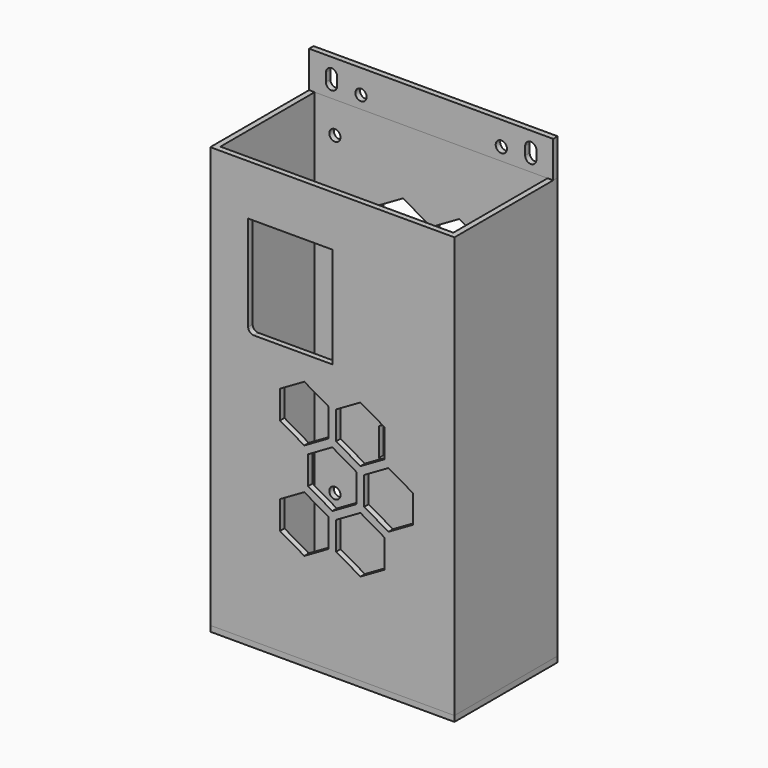
from build123d import *

# Parameters (mm, degrees)
SKETCH_W        = 87
SKETCH_H        = 46
SKETCH_W_2      = 83
SKETCH_H_2      = 42
PAD_DEPTH       = 150
SKETCH002_W     = 30
SKETCH002_H     = 36
POCKET_DEPTH    = 2
FILLET_R        = 2
SKETCH003_R     = 2
POCKET001_DEPTH = 2
SKETCH001_W     = 87
SKETCH001_H     = 46
SKETCH001_R     = 19
SKETCH001_R_2   = 2
SKETCH001_W_2   = 24
SKETCH001_H_2   = 31
PAD001_DEPTH    = 2
SKETCH004_W     = 87
SKETCH004_H     = 13
SKETCH004_R     = 2
PAD002_DEPTH    = 2


with BuildPart() as body:
    # Sketch → Pad (new body)
    with BuildSketch(Plane.XY):
        Rectangle(SKETCH_W, SKETCH_H)
        Rectangle(SKETCH_W_2, SKETCH_H_2, mode=Mode.SUBTRACT)
    extrude(amount=PAD_DEPTH)

    # Sketch002 (on Face3 of Pad) → Pocket (cut)
    with BuildSketch(Plane.XZ.offset(23)):
        with Locations((-15, 114)):
            Rectangle(SKETCH002_W, SKETCH002_H)
        Polygon((-1.339746, 72.320508), (-1.339746, 82.320508), (-10, 87.320508), (-18.660254, 82.320508), (-18.660254, 72.320508), (-10, 67.320508), align=None)
        Polygon((18.660254, 72.320508), (18.660254, 82.320508), (10, 87.320508), (1.339746, 82.320508), (1.339746, 72.320508), (10, 67.320508), align=None)
        Polygon((28.660254, 55), (28.660254, 65), (20, 70), (11.339746, 65), (11.339746, 55), (20, 50), align=None)
        Polygon((18.660254, 37.679492), (18.660254, 47.679492), (10, 52.679492), (1.339746, 47.679492), (1.339746, 37.679492), (10, 32.679492), align=None)
        Polygon((8.660254, 55), (8.660254, 65), (0, 70), (-8.660254, 65), (-8.660254, 55), (0, 50), align=None)
        Polygon((-1.339746, 37.679492), (-1.339746, 47.679492), (-10, 52.679492), (-18.660254, 47.679492), (-18.660254, 37.679492), (-10, 32.679492), align=None)
    extrude(amount=-POCKET_DEPTH, mode=Mode.SUBTRACT)

    # Fillet
    fillet_edges = [body.edges().sort_by_distance(p)[0] for p in [
        (-30, -22, 96),
    ]]
    fillet(fillet_edges, radius=FILLET_R)

    # Sketch003 (on Face48 of Fillet) → Pocket001 (cut)
    with BuildSketch(Plane(origin=(0, 23, 0), x_dir=(-1, 0, 0), z_dir=(0, 1, 0))):
        with Locations((-34.3, 138.8)):
            Circle(SKETCH003_R)
        with Locations((34.3, 138.8)):
            Circle(SKETCH003_R)
        with Locations((-34.3, 28.6)):
            Circle(SKETCH003_R)
        with Locations((34.3, 26.6)):
            Circle(SKETCH003_R)
        Polygon((8.660254, 94.641016), (8.660254, 104.641016), (0, 109.641016), (-8.660254, 104.641016), (-8.660254, 94.641016), (0, 89.641016), align=None)
        Polygon((28.660254, 94.641016), (28.660254, 104.641016), (20, 109.641016), (11.339746, 104.641016), (11.339746, 94.641016), (20, 89.641016), align=None)
        Polygon((-1.339746, 77.320508), (-1.339746, 87.320508), (-10, 92.320508), (-18.660254, 87.320508), (-18.660254, 77.320508), (-10, 72.320508), align=None)
        Polygon((18.660254, 77.320508), (18.660254, 87.320508), (10, 92.320508), (1.339746, 87.320508), (1.339746, 77.320508), (10, 72.320508), align=None)
        Polygon((-1.339746, 111.961524), (-1.339746, 121.961524), (-10, 126.961524), (-18.660254, 121.961524), (-18.660254, 111.961524), (-10, 106.961524), align=None)
        Polygon((18.660254, 111.961524), (18.660254, 121.961524), (10, 126.961524), (1.339746, 121.961524), (1.339746, 111.961524), (10, 106.961524), align=None)
        Polygon((8.660254, 60), (8.660254, 70), (0, 75), (-8.660254, 70), (-8.660254, 60), (0, 55), align=None)
        Polygon((28.660254, 60), (28.660254, 70), (20, 75), (11.339746, 70), (11.339746, 60), (20, 55), align=None)
        Polygon((10, 57.679492), (1.339746, 52.679492), (1.339746, 42.679492), (10, 37.679492), (18.660254, 42.679492), (18.660254, 52.679492), align=None)
        Polygon((-1.339746, 42.679492), (-1.339746, 52.679492), (-10, 57.679492), (-18.660254, 52.679492), (-18.660254, 42.679492), (-10, 37.679492), align=None)
    extrude(amount=-POCKET001_DEPTH, mode=Mode.SUBTRACT)


with BuildPart() as body001:
    # Sketch001 → Pad001 (new body)
    with BuildSketch(Plane.XY):
        Rectangle(SKETCH001_W, SKETCH001_H)
        with Locations((19.5, 0)):
            Circle(SKETCH001_R, mode=Mode.SUBTRACT)
        with Locations((35.5, 17)):
            Circle(SKETCH001_R_2, mode=Mode.SUBTRACT)
        with Locations((35.5, -17)):
            Circle(SKETCH001_R_2, mode=Mode.SUBTRACT)
        with Locations((-37.5, -16)):
            Circle(SKETCH001_R_2, mode=Mode.SUBTRACT)
        with Locations((-26.5, -17)):
            Circle(SKETCH001_R_2, mode=Mode.SUBTRACT)
        with Locations((-26.5, 2.5)):
            Rectangle(SKETCH001_W_2, SKETCH001_H_2, mode=Mode.SUBTRACT)
    extrude(amount=-PAD001_DEPTH)


with BuildPart() as body002:
    # Sketch004 → Pad002 (new body)
    with BuildSketch(Plane.XZ):
        with Locations((0, 6.5)):
            Rectangle(SKETCH004_W, SKETCH004_H)
        with Locations((-25, 4.5)):
            Circle(SKETCH004_R, mode=Mode.SUBTRACT)
        with Locations((25, 4.5)):
            Circle(SKETCH004_R, mode=Mode.SUBTRACT)
        with BuildLine():
            ThreePointArc((37.5, 7.5), (35.5, 9.5), (33.5, 7.5))
            Line((33.5, 7.5), (33.5, 4.5))
            ThreePointArc((33.5, 4.5), (35.5, 2.5), (37.5, 4.5))
            Line((37.5, 7.5), (37.5, 4.5))
        make_face(mode=Mode.SUBTRACT)
        with BuildLine():
            ThreePointArc((-33.5, 7.5), (-35.5, 9.5), (-37.5, 7.5))
            Line((-37.5, 7.5), (-37.5, 4.5))
            ThreePointArc((-37.5, 4.5), (-35.5, 2.5), (-33.5, 4.5))
            Line((-33.5, 7.5), (-33.5, 4.5))
        make_face(mode=Mode.SUBTRACT)
    extrude(amount=PAD002_DEPTH)


with BuildPart() as body002_1:
    # Body002 placement: moved
    add(body002.part.moved(Location((0, 23, 150))))


solid = Compound([body.part, body001.part, body002_1.part])
